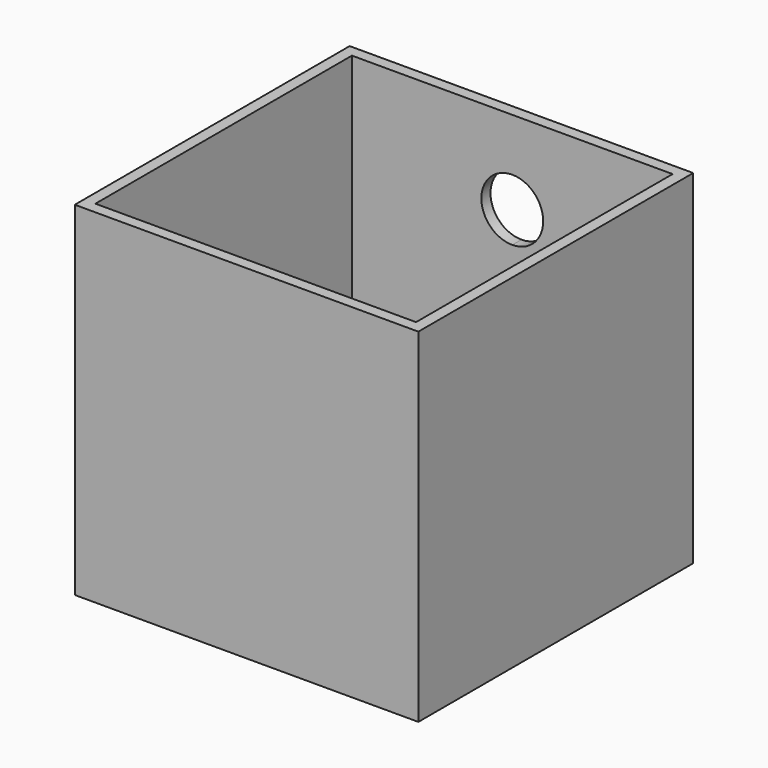
from build123d import *

# Parameters (mm, degrees)
F0_W     = 150
F0_H     = 150
F1_DEPTH = 150
F2_T     = -5
F4_DEPTH = 5


with BuildPart() as f1:
    # F0 (on Top) → F1 (new body)
    with BuildSketch(Plane.XY):
        Rectangle(F0_W, F0_H)
    extrude(amount=F1_DEPTH)

    # F2
    f2_openings = [f1.faces().sort_by_distance(p)[0] for p in [
        (0, 0, 150),
    ]]
    offset(amount=F2_T, openings=f2_openings)

    # F3 (on face) → F4 (cut)
    with BuildSketch(Plane.XZ.offset(-70)):
        with BuildLine():
            ThreePointArc((13.5, 113.5), (9.545942, 123.045942), (0, 127))
            Line((0, 127), (0, 100))
            ThreePointArc((0, 100), (9.545942, 103.954058), (13.5, 113.5))
        make_face()
        with BuildLine():
            Line((0, 100), (0, 127))
            ThreePointArc((0, 127), (-13.5, 113.5), (0, 100))
        make_face()
    extrude(amount=-F4_DEPTH, mode=Mode.SUBTRACT)


solid = f1.part
